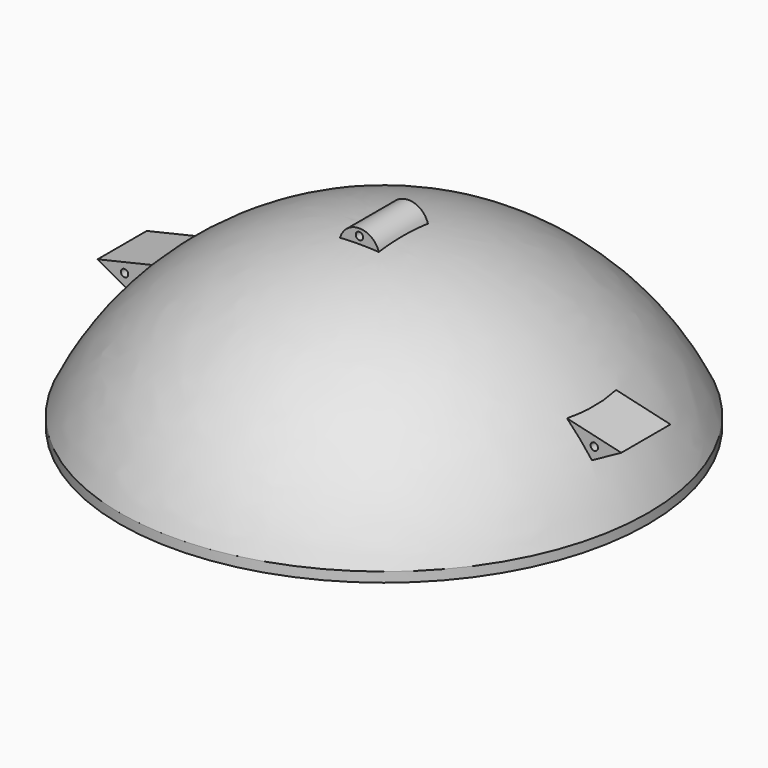
from build123d import *

# Parameters (mm, degrees)
F4_W      = 2
F4_H      = 4
F6_R      = 1.5
F7_DEPTH  = 12.5
F8_R      = 1.5
F9_DEPTH  = 12.5
F10_R     = 1.5
F11_DEPTH = 12.5


with BuildPart() as f2:
    # F0 (on Front) → F2 (revolve)
    with BuildSketch(Plane.XZ):
        with BuildLine():
            Line((-107.5, 0), (0, 0))
            Line((0, 0), (0, 67))
            ThreePointArc((0, 67), (-63.47382, 49.101651), (-107.5, 0))
        make_face()
    revolve(axis=Axis((0, 0, 33.5), (0, 0, 1)))

    # F1 (on Front) → F3 (revolve, cut)
    with BuildSketch(Plane.XZ):
        with BuildLine():
            Line((-105.5, 0), (0, 0))
            Line((0, 0), (0, 65))
            ThreePointArc((0, 65), (-61.789194, 47.171307), (-105.5, 0))
        make_face()
    revolve(axis=Axis((0, 0, 32.5), (0, 0, 1)), mode=Mode.SUBTRACT)

    # F4 (on Front) → F5 (revolve)
    with BuildSketch(Plane.XZ):
        with Locations((-106.5, -2)):
            Rectangle(F4_W, F4_H)
    revolve(axis=Axis((0, 0, -3.064933), (0, 0, -1)))

    # F6 (on Front) → F7 (join, symmetric)
    with BuildSketch(Plane.XZ):
        Polygon((-106.584328, 26.365628), (-93.438419, 19.129254), (-84.525248, 31.514426), align=None)
        with Locations((-95.591055, 24.988731)):
            Circle(F6_R, mode=Mode.SUBTRACT)
    extrude(amount=F7_DEPTH, both=True)

    # F8 (on Front) → F9 (join, symmetric)
    with BuildSketch(Plane.XZ):
        Polygon((84.52525, 31.514422), (93.43842, 19.12925), (106.584329, 26.365624), align=None)
        with Locations((95.591056, 24.988727)):
            Circle(F8_R, mode=Mode.SUBTRACT)
    extrude(amount=F9_DEPTH, both=True)

    # F10 (on Front) → F11 (join, symmetric)
    with BuildSketch(Plane.XZ):
        with BuildLine():
            ThreePointArc((8, 65.735355), (0, 72.135355), (-8, 65.735355))
            Line((-8, 65.735355), (8, 65.735355))
        make_face()
        with Locations((0, 69.362663)):
            Circle(F10_R, mode=Mode.SUBTRACT)
    extrude(amount=F11_DEPTH, both=True)


solid = f2.part
